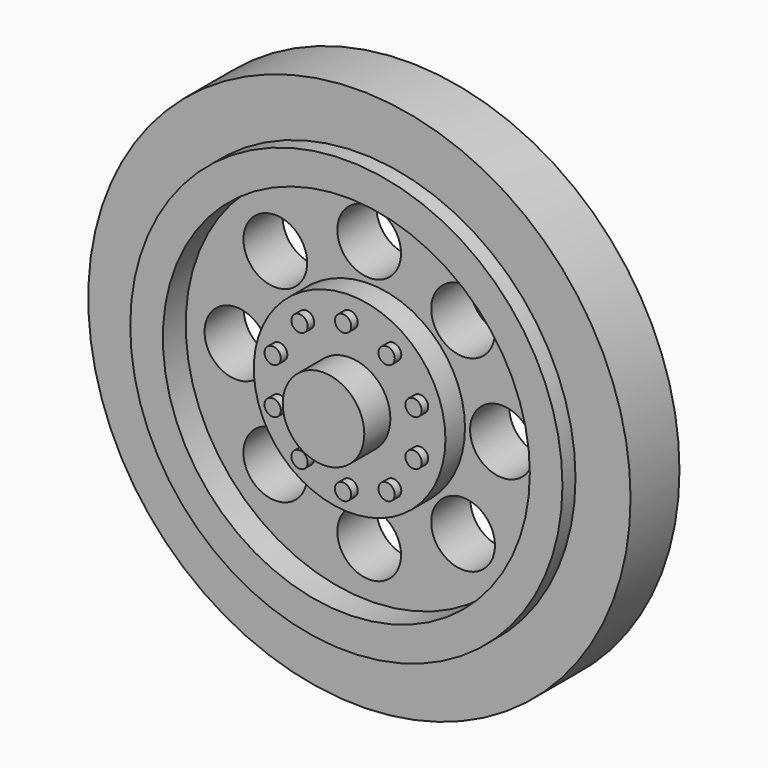
from build123d import *

# Parameters (mm, degrees)
F0_R      = 16.891
F2_DEPTH  = 3.81
F1_R      = 13.462
F3_DEPTH  = 1.016
F4_R      = 11.43
F5_DEPTH  = 1.778
F6_R      = 1.98516
F7_DEPTH  = 25.4
F8_R      = 5.969
F9_DEPTH  = 1.524
F10_R     = 0.508
F11_DEPTH = 0.508
F12_R     = 2.54
F13_DEPTH = 2.032
F14_R     = 3.429
F15_DEPTH = 8.89
F16_R     = 1.397
F17_DEPTH = 8.89


with BuildPart() as f2:
    # F0 (on Front) → F2 (new body)
    with BuildSketch(Plane.XZ):
        Circle(F0_R)
    extrude(amount=-F2_DEPTH)

    # F1 (on face) → F3 (join)
    with BuildSketch(Plane.XZ):
        Circle(F1_R)
    extrude(amount=F3_DEPTH)

    # F4 (on face) → F5 (cut)
    with BuildSketch(Plane.XZ.offset(1.016)):
        Circle(F4_R)
    extrude(amount=-F5_DEPTH, mode=Mode.SUBTRACT)

    # F6 (on face) → F7 (cut)
    with BuildSketch(Plane.XZ.offset(-0.762)):
        with Locations((0, 8.271358)):
            Circle(F6_R)
        with Locations((5.848733, 5.848733)):
            Circle(F6_R)
        with Locations((8.271358, 0)):
            Circle(F6_R)
        with Locations((5.848733, -5.848733)):
            Circle(F6_R)
        with Locations((0, -8.271358)):
            Circle(F6_R)
        with Locations((-5.848733, -5.848733)):
            Circle(F6_R)
        with Locations((-8.271358, 0)):
            Circle(F6_R)
        with Locations((-5.848733, 5.848733)):
            Circle(F6_R)
    extrude(amount=-F7_DEPTH, mode=Mode.SUBTRACT)

    # F8 (on face) → F9 (join)
    with BuildSketch(Plane.XZ.offset(-0.762)):
        Circle(F8_R)
    extrude(amount=F9_DEPTH)

    # F10 (on face) → F11 (join)
    with BuildSketch(Plane.XZ.offset(0.762)):
        with Locations((-2.711595, 3.732191)):
            Circle(F10_R)
        with Locations((0, 4.613242)):
            Circle(F10_R)
        with Locations((2.711595, 3.732191)):
            Circle(F10_R)
        with Locations((4.387453, 1.42557)):
            Circle(F10_R)
        with Locations((4.387453, -1.42557)):
            Circle(F10_R)
        with Locations((2.711595, -3.732191)):
            Circle(F10_R)
        with Locations((0, -4.613242)):
            Circle(F10_R)
        with Locations((-2.711595, -3.732191)):
            Circle(F10_R)
        with Locations((-4.387453, -1.42557)):
            Circle(F10_R)
        with Locations((-4.387453, 1.42557)):
            Circle(F10_R)
    extrude(amount=F11_DEPTH)

    # F12 (on face) → F13 (join)
    with BuildSketch(Plane.XZ.offset(0.762)):
        Circle(F12_R)
    extrude(amount=F13_DEPTH)


with BuildPart() as f15:
    # F14 (on face) → F15 (new body)
    with BuildSketch(Plane(origin=(0, 3.81, 0), x_dir=(-1, 0, 0), z_dir=(0, 1, 0))):
        Circle(F14_R)
    extrude(amount=F15_DEPTH)

    # F16 (on face) → F17 (cut)
    with BuildSketch(Plane(origin=(0, 12.7, 0), x_dir=(-1, 0, 0), z_dir=(0, 1, 0))):
        Circle(F16_R)
    extrude(amount=-F17_DEPTH, mode=Mode.SUBTRACT)


solid = Compound([f2.part, f15.part])
